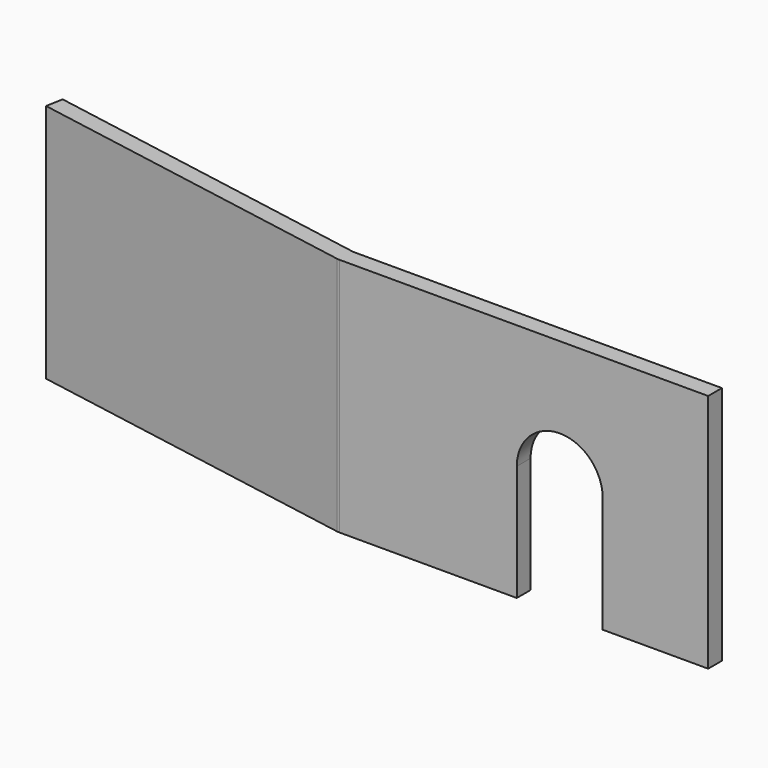
from build123d import *

# Parameters (mm, degrees)
F1_DEPTH      = 3
F3_DEPTH      = 21.6650813818
F3_DEPTH_BACK = 20.2457859941


with BuildPart() as f1:
    # F0 (on Front) → F1 (new body)
    with BuildSketch(Plane.XZ):
        with BuildLine():
            ThreePointArc((-7.5, 0), (0, 7.5), (7.5, 0))
            Line((7.5, 0), (7.5, -20.2457859941))
            Line((7.5, -20.2457859941), (25.9074462614, -20.2457859941))
            Line((25.9074462614, -20.2457859941), (25.9074462614, 21.6650813818))
            Line((25.9074462614, 21.6650813818), (-38.4318618068, 21.6650813818))
            Line((-38.4318618068, 21.6650813818), (-38.4318618068, -20.2457859941))
            Line((-38.4318618068, -20.2457859941), (-7.5, -20.2457859941))
            Line((-7.5, -20.2457859941), (-7.5, 0))
        make_face()
    extrude(amount=F1_DEPTH)

    # F2 (on Top) → F3 (join, two sides)
    with BuildSketch(Plane.XY) as f3_sk:
        with BuildLine():
            Line((-38.4318618068, -3), (-38.4318618068, 0))
            Line((-38.4318618068, 0), (-97.5203269875, 10.41889066))
            Line((-97.5203269875, 10.41889066), (-98.0412715205, 7.464467401))
            Line((-98.0412715205, 7.464467401), (-38.9528063398, -2.954423259))
            ThreePointArc((-38.9528063398, -2.954423259), (-38.693329035, -2.9885840943), (-38.4318618068, -3))
        make_face()
    extrude(amount=F3_DEPTH)
    extrude(f3_sk.sketch, amount=-F3_DEPTH_BACK)


solid = f1.part
